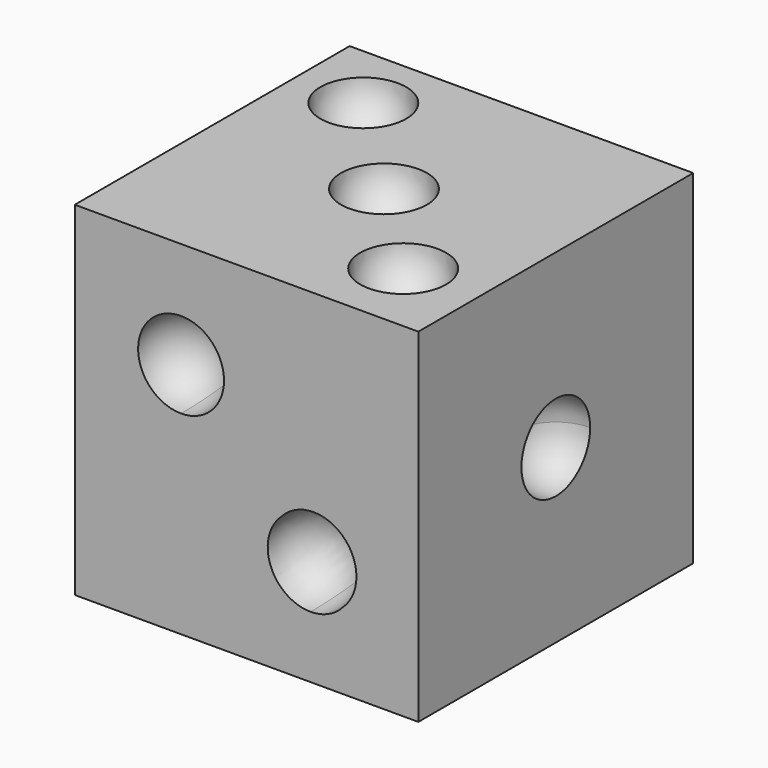
from build123d import *

# Parameters (mm, degrees)
F0_W     = 50.8
F0_H     = 50.8
F1_DEPTH = 50.8


with BuildPart() as f1:
    # F0 (on Front) → F1 (new body)
    with BuildSketch(Plane.XZ):
        with Locations((-25.4, 25.4)):
            Rectangle(F0_W, F0_H)
    extrude(amount=F1_DEPTH)

    # F2 (on face) → F3 (revolve, cut)
    with BuildSketch(Plane.YZ):
        with BuildLine():
            ThreePointArc((-25.4, 19.05), (-20.9098719395, 20.9098719395), (-19.05, 25.4))
            ThreePointArc((-19.05, 25.4), (-20.9098719395, 29.8901280605), (-25.4, 31.75))
            Line((-25.4, 31.75), (-25.4, 19.05))
        make_face()
    revolve(axis=Axis((0, -25.4, 25.4), (0, 0, -1)), mode=Mode.SUBTRACT)

    # F4 (on face) → F5 (revolve, cut)
    with BuildSketch(Plane.XZ.offset(50.8)):
        with BuildLine():
            ThreePointArc((-28.7345517881, 35.0845517881), (-32.6545119926, 40.9511868196), (-39.5746798487, 39.5746798487))
            Line((-39.5746798487, 39.5746798487), (-30.5944237276, 30.5944237276))
            ThreePointArc((-30.5944237276, 30.5944237276), (-29.2179167567, 32.6545119926), (-28.7345517881, 35.0845517881))
        make_face()
        with BuildLine():
            ThreePointArc((-9.1544381927, 15.9236623089), (-13.2120338333, 21.8454341935), (-20.1992829967, 20.1992829967))
            Line((-20.1992829967, 20.1992829967), (-11.2288175049, 11.2288175049))
            ThreePointArc((-11.2288175049, 11.2288175049), (-9.6961384687, 13.3573119205), (-9.1544381927, 15.9236623089))
        make_face()
    revolve(axis=Axis((-25.4, -50.8, 25.4), (0.7071067812, 0, -0.7071067812)), mode=Mode.SUBTRACT)

    # F2 (on face) → F6 (revolve, cut)
    with BuildSketch(Plane.YZ):
        with BuildLine():
            ThreePointArc((-25.4, 19.05), (-20.9098719395, 20.9098719395), (-19.05, 25.4))
            ThreePointArc((-19.05, 25.4), (-20.9098719395, 29.8901280605), (-25.4, 31.75))
            Line((-25.4, 31.75), (-25.4, 19.05))
        make_face()
    revolve(axis=Axis((0, -25.4, 25.4), (0, 0, -1)), mode=Mode.SUBTRACT)

    # F7 (on face) → F8 (revolve, cut)
    with BuildSketch(Plane.XY.offset(50.8)):
        with BuildLine():
            Line((-36.2026417031, -14.5973582969), (-45.1828978242, -5.6171021758))
            ThreePointArc((-45.1828978242, -5.6171021758), (-45.1828978242, -14.5973582969), (-36.2026417031, -14.5973582969))
        make_face()
        with BuildLine():
            Line((-20.9098719395, -29.8901280605), (-29.8901280605, -20.9098719395))
            ThreePointArc((-29.8901280605, -20.9098719395), (-29.8901280605, -29.8901280605), (-20.9098719395, -29.8901280605))
        make_face()
        with BuildLine():
            ThreePointArc((-15.7055292496, -35.0944707504), (-15.7055292496, -44.0747268715), (-6.7252731285, -44.0747268715))
            Line((-6.7252731285, -44.0747268715), (-15.7055292496, -35.0944707504))
        make_face()
    revolve(axis=Axis((-25.4, -25.4, 50.8), (0.7071067812, -0.7071067812, 0)), mode=Mode.SUBTRACT)


solid = f1.part
